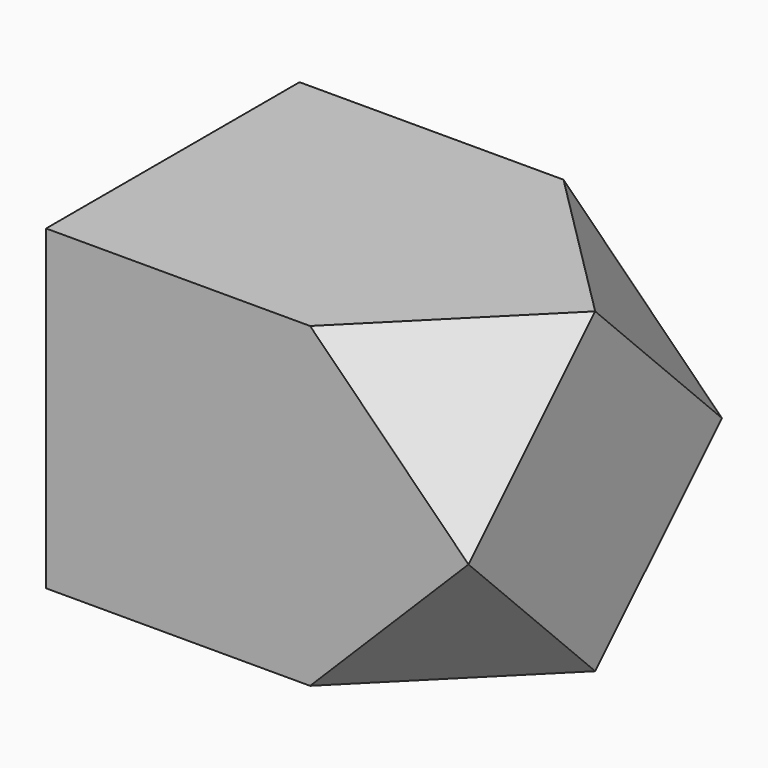
from build123d import *

# Parameters (mm, degrees)
F0_W      = 12.5
F0_H      = 15
F1_DEPTH  = 15
F7_DEPTH  = 25
F10_DEPTH = 43.5
F14_DEPTH = 25
F17_DEPTH = 25


with BuildPart() as f1:
    # F0 (on Front) → F1 (new body)
    with BuildSketch(Plane.XZ):
        with Locations((6.25, 7.5)):
            Rectangle(F0_W, F0_H)
        Polygon((20, 15), (12.5, 15), (20, 7.5), align=None)
        Polygon((20, 7.5), (12.5, 0), (20, 0), align=None)
        Polygon((20, 7.5), (12.5, 15), (12.5, 0), align=None)
    extrude(amount=F1_DEPTH)

    # F6 (on 3pt) → F7 (cut)
    with BuildSketch(Plane(origin=(9.1666666667, 9.1666666667, 9.1666666667), x_dir=(0.8164965809, -0.4082482905, -0.4082482905), z_dir=(-0.5773502692, -0.5773502692, -0.5773502692))):
        Polygon((4.0824829046, 10.6066017178), (13.2680694401, 5.3033008589), (13.2680694401, 15.9099025767), align=None)
    extrude(amount=-F7_DEPTH, mode=Mode.SUBTRACT)

    # F9 (on 3pt) → F10 (cut)
    with BuildSketch(Plane(origin=(4.1666666667, 4.1666666667, -4.1666666667), x_dir=(-0.8164965809, 0.4082482905, -0.4082482905), z_dir=(0.5773502692, 0.5773502692, -0.5773502692))):
        Polygon((-19.391793797, 5.3033008589), (-19.391793797, -5.3033008589), (-10.2062072616, 0), align=None)
    extrude(amount=F10_DEPTH, mode=Mode.SUBTRACT)

    # F13 (on 3pt) → F14 (cut)
    with BuildSketch(Plane(origin=(9.1666666667, -9.1666666667, -9.1666666667), x_dir=(-0.4082482905, -0.8164965809, 0.4082482905), z_dir=(-0.5773502692, 0.5773502692, 0.5773502692))):
        Polygon((-2.0412414523, 14.1421356237), (7.1443450831, 8.8388347648), (7.1443450831, 19.4454364826), align=None)
    extrude(amount=-F14_DEPTH, mode=Mode.SUBTRACT)

    # F16 (on 3pt) → F17 (cut)
    with BuildSketch(Plane(origin=(14.1666666667, -14.1666666667, 14.1666666667), x_dir=(-0.8164965809, -0.4082482905, 0.4082482905), z_dir=(-0.5773502692, 0.5773502692, -0.5773502692))):
        Polygon((2.0412414523, 0), (-7.1443450831, 5.3033008589), (-7.1443450831, -5.3033008589), align=None)
    extrude(amount=-F17_DEPTH, mode=Mode.SUBTRACT)


solid = f1.part
